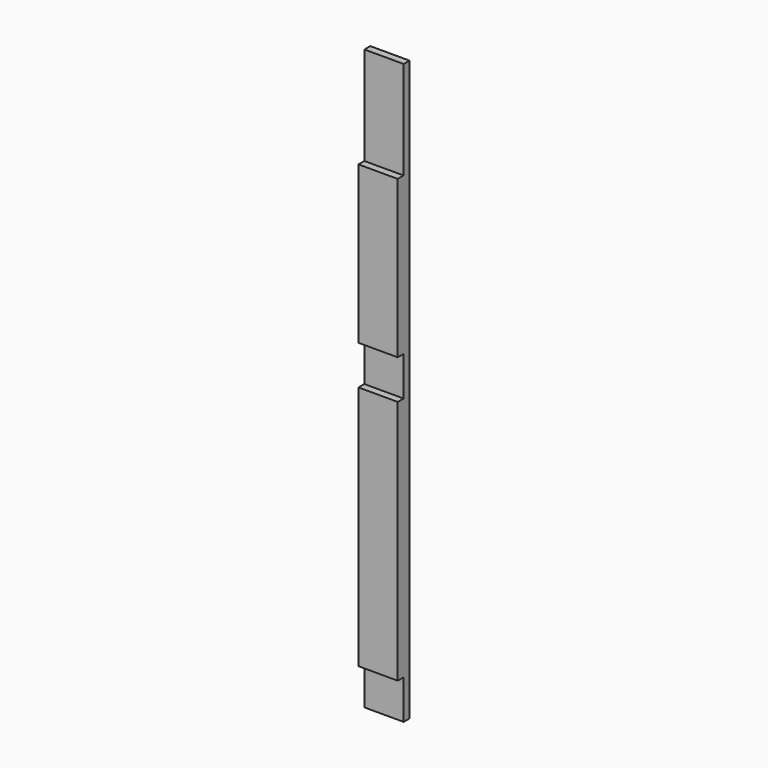
from build123d import *

# Parameters (mm, degrees)
F0_W     = 50.8
F0_H     = 19.05
F1_DEPTH = 749.3
F2_W     = 122.435573
F2_H     = 50.8
F2_W_2   = 93.867282
F2_W_3   = 343.160421
F2_H_2   = 127
F3_DEPTH = 25.4
F4_R     = 0.79375
F5_DEPTH = 25.4


with BuildPart() as f1:
    # F0 (on Top) → F1 (new body)
    with BuildSketch(Plane.XY):
        Rectangle(F0_W, F0_H)
    extrude(amount=F1_DEPTH)

    # F2 (on Front) → F3 (cut)
    with BuildSketch(Plane.XZ):
        with Locations((22.446524, 25.4)):
            Rectangle(F2_W, F2_H)
        with Locations((2.720783, 393.7)):
            Rectangle(F2_W_2, F2_H)
        with Locations((-38.781822, 685.8)):
            Rectangle(F2_W_3, F2_H_2)
    extrude(amount=F3_DEPTH, mode=Mode.SUBTRACT)

    # F4 (on Front) → F5 (cut)
    with BuildSketch(Plane.XZ):
        with Locations((9.525, 101.6)):
            Circle(F4_R)
        with Locations((9.525, 155.575)):
            Circle(F4_R)
        with Locations((9.525, 263.525)):
            Circle(F4_R)
        with Locations((9.525, 317.5)):
            Circle(F4_R)
        with Locations((-9.525, 263.525)):
            Circle(F4_R)
        with Locations((-9.525, 317.5)):
            Circle(F4_R)
        with Locations((-9.525, 101.6)):
            Circle(F4_R)
        with Locations((-9.525, 155.575)):
            Circle(F4_R)
    extrude(amount=-F5_DEPTH, mode=Mode.SUBTRACT)


solid = f1.part
